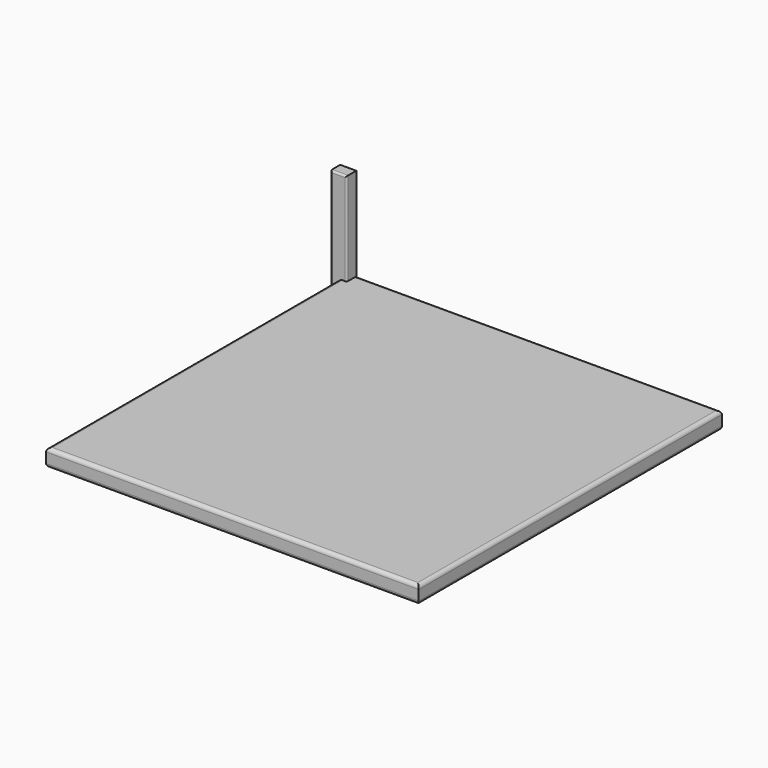
from build123d import *

# Parameters (mm, degrees)
F0_W     = 2.2620111704
F0_H     = 31.0604199767
F1_DEPTH = 1.8574120477
F2_W     = 52.4688437581
F2_H     = 53.3676892519
F3_DEPTH = 2.4366742
F5_R     = 0.508
F6_R     = 0.254


with BuildPart() as f1:
    # F0 (on Front) → F1 (new body)
    with BuildSketch(Plane.XZ):
        with Locations((-75.0106051564, -91.7925722897)):
            Rectangle(F0_W, F0_H)
    extrude(amount=F1_DEPTH)


with BuildPart() as f1b:
    # F0 (on Front) → F1, piece 2 (new body)
    with BuildSketch(Plane.XZ):
        Rectangle(F0_W, F0_H)
    extrude(amount=F1_DEPTH)

    # F6
    f6_edges = [f1b.edges().sort_by_distance(p)[0] for p in [
        (1.131006, -1.857412, 0),
        (0, -1.857412, 15.53021),
        (-1.131006, -1.857412, 0),
        (0, -1.857412, -15.53021),
        (1.131006, 0, 0),
        (0, 0, 15.53021),
        (-1.131006, 0, 0),
        (0, 0, -15.53021),
    ]]
    fillet(f6_edges, radius=F6_R)


with BuildPart() as f3:
    # F2 (on Top) → F3 (new body)
    with BuildSketch(Plane.XY):
        with Locations((26.2344218791, -26.6838446259)):
            Rectangle(F2_W, F2_H)
    extrude(amount=F3_DEPTH)

    # F5
    f5_edges = [f3.edges().sort_by_distance(p)[0] for p in [
        (26.234422, 0, 2.436674),
        (0, -26.683845, 2.436674),
        (26.234422, -53.367689, 2.436674),
        (52.468844, -26.683845, 2.436674),
        (26.234422, 0, 0),
        (0, -26.683845, 0),
        (26.234422, -53.367689, 0),
        (52.468844, -26.683845, 0),
    ]]
    fillet(f5_edges, radius=F5_R)


solid = Compound([f1b.part, f3.part])
